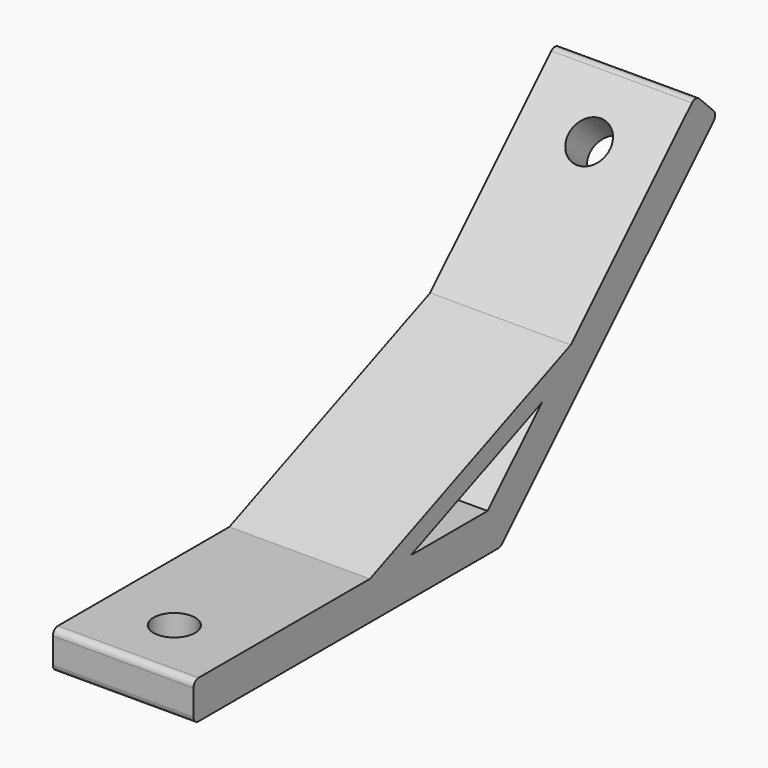
from build123d import *

# Parameters (mm, degrees)
PAD_DEPTH       = 11
SKETCH001_R     = 3.25
POCKET_DEPTH    = 6
SKETCH002_R     = 3.25
POCKET001_DEPTH = 6
FILLET_R        = 1


with BuildPart() as part:
    # Sketch → Pad (new body, symmetric)
    with BuildSketch(Plane.YZ):
        Polygon((-60, 0), (0, 0), (42.4264068712, 42.4264068712), (38.1837661841, 46.6690475583), (13.7781745931, 22.2634559673), (-25.4852813742, 6), (-60, 6), align=None)
        Polygon((8.1213203436, 16.6066017178), (-17.4852813742, 6), (-2.4852813742, 6), align=None, mode=Mode.SUBTRACT)
    extrude(amount=PAD_DEPTH, both=True)

    # Sketch001 (on Face6 of Pad) → Pocket (cut)
    with BuildSketch(Plane(origin=(0, 0, 6), x_dir=(0, -1, 0), z_dir=(0, 0, 1))):
        with Locations((50, 0)):
            Circle(SKETCH001_R)
    extrude(amount=-POCKET_DEPTH, mode=Mode.SUBTRACT)

    # Sketch002 (on Face9 of Pocket) → Pocket001 (cut)
    with BuildSketch(Plane(origin=(0, -4.2426406871, 4.2426406871), x_dir=(0, -0.7071067812, -0.7071067812), z_dir=(0, -0.7071067812, 0.7071067812))):
        with Locations((-50, 0)):
            Circle(SKETCH002_R)
    extrude(amount=-POCKET001_DEPTH, mode=Mode.SUBTRACT)

    # Fillet
    fillet_edges = [part.edges().sort_by_distance(p)[0] for p in [
        (0, 0, 0),
        (0, -60, 0),
        (0, -60, 6),
        (0, 38.183766, 46.669048),
        (0, 42.426407, 42.426407),
    ]]
    fillet(fillet_edges, radius=FILLET_R)


solid = part.part
